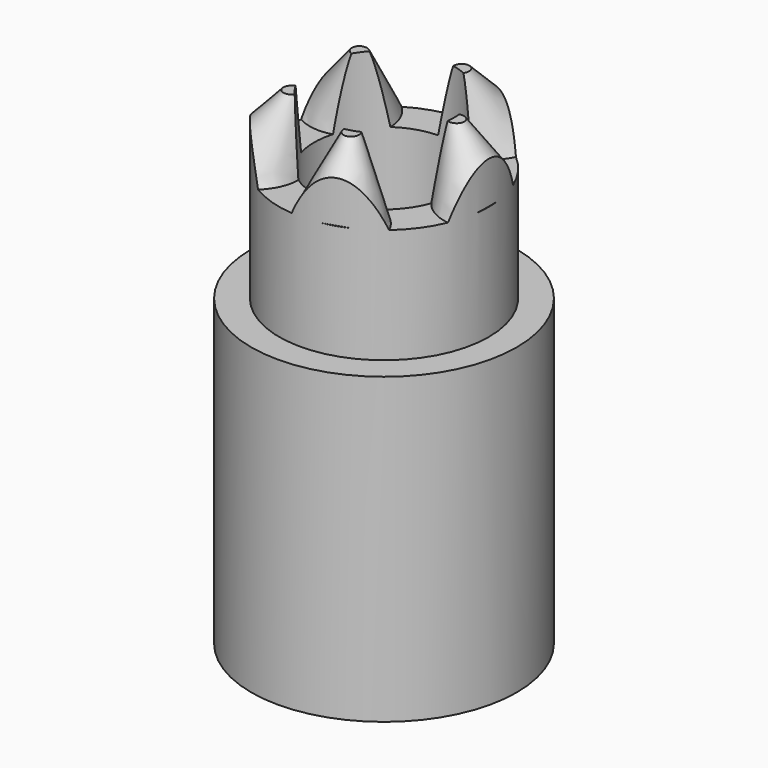
from build123d import *

# Parameters (mm, degrees)
F0_R      = 1.5
F0_R_2    = 1
F1_DEPTH  = 2.6
F5_COUNT  = 5
F5_ANGLE  = 288
F17_DEPTH = 1.64
F0_R_3    = 1.9
F18_DEPTH = 4.35


with BuildPart() as f1:
    # F0 (on Top) → F1 (new body)
    with BuildSketch(Plane.XY):
        Circle(F0_R)
        Circle(F0_R_2, mode=Mode.SUBTRACT)
    extrude(amount=F1_DEPTH)


with BuildPart() as f4:
    # F3 (on Front) → F4 (revolve)
    with BuildSketch(Plane.XZ):
        Polygon((0.9303738137, 2.820600407), (1.375, 1.599), (1.9388155725, 1.804212086), align=None)
    revolve(axis=Axis((1.1526869068, 0, 2.2098002035), (-0.3420201433, 0, 0.9396926208)))


with BuildPart() as f5_1:
    # F5: instance of F4
    add(f4.part.rotate(Axis((0, 0, 0.7995), (0, 0, 1)), 1 * F5_ANGLE / (F5_COUNT - 1)))


with BuildPart() as f5_2:
    # F5: instance of F4
    add(f4.part.rotate(Axis((0, 0, 0.7995), (0, 0, 1)), 2 * F5_ANGLE / (F5_COUNT - 1)))


with BuildPart() as f5_3:
    # F5: instance of F4
    add(f4.part.rotate(Axis((0, 0, 0.7995), (0, 0, 1)), 3 * F5_ANGLE / (F5_COUNT - 1)))


with BuildPart() as f5_4:
    # F5: instance of F4
    add(f4.part.rotate(Axis((0, 0, 0.7995), (0, 0, 1)), 4 * F5_ANGLE / (F5_COUNT - 1)))


with BuildPart() as f6_1:
    # F6: copy of F1
    add(f1.part)


with BuildPart() as f1_1:
    add(f1.part)

    # F7: intersect F4
    add(f4.part, mode=Mode.INTERSECT)



with BuildPart() as f8_1:
    # F8: copy of F6_1
    add(f6_1.part)


with BuildPart() as f9_1:
    # F9: copy of F8_1
    add(f8_1.part)


with BuildPart() as f10_1:
    # F10: copy of F9_1
    add(f9_1.part)


with BuildPart() as f5_1_1:
    add(f5_1.part)

    # F11: intersect F6_1
    add(f6_1.part, mode=Mode.INTERSECT)


with BuildPart() as f5_2_1:
    add(f5_2.part)

    # F12: intersect F8_1
    add(f8_1.part, mode=Mode.INTERSECT)


with BuildPart() as f5_3_1:
    add(f5_3.part)

    # F13: intersect F9_1
    add(f9_1.part, mode=Mode.INTERSECT)


with BuildPart() as f14_1:
    # F14: copy of F10_1
    add(f10_1.part)


with BuildPart() as f10_1_1:
    add(f10_1.part)

    # F15: intersect F5_4
    add(f5_4.part, mode=Mode.INTERSECT)


with BuildPart() as f17:
    # F0 (on Top) → F17 (new body)
    with BuildSketch(Plane.XY):
        Circle(F0_R)
        Circle(F0_R_2, mode=Mode.SUBTRACT)
    extrude(amount=F17_DEPTH)


with BuildPart() as f1_2:
    add(f1_1.part)

    add(f5_1_1.part)  # F18 merges F5_1

    add(f5_2_1.part)  # F18 merges F5_2

    add(f5_3_1.part)  # F18 merges F5_3

    add(f10_1_1.part)  # F18 merges F10_1

    add(f17.part)  # F18 merges F17
    # F0 (on Top) → F18 (join)
    with BuildSketch(Plane.XY):
        Circle(F0_R_3)
        Circle(F0_R, mode=Mode.SUBTRACT)
        Circle(F0_R)
        Circle(F0_R_2, mode=Mode.SUBTRACT)
    extrude(amount=-F18_DEPTH)


solid = f1_2.part
